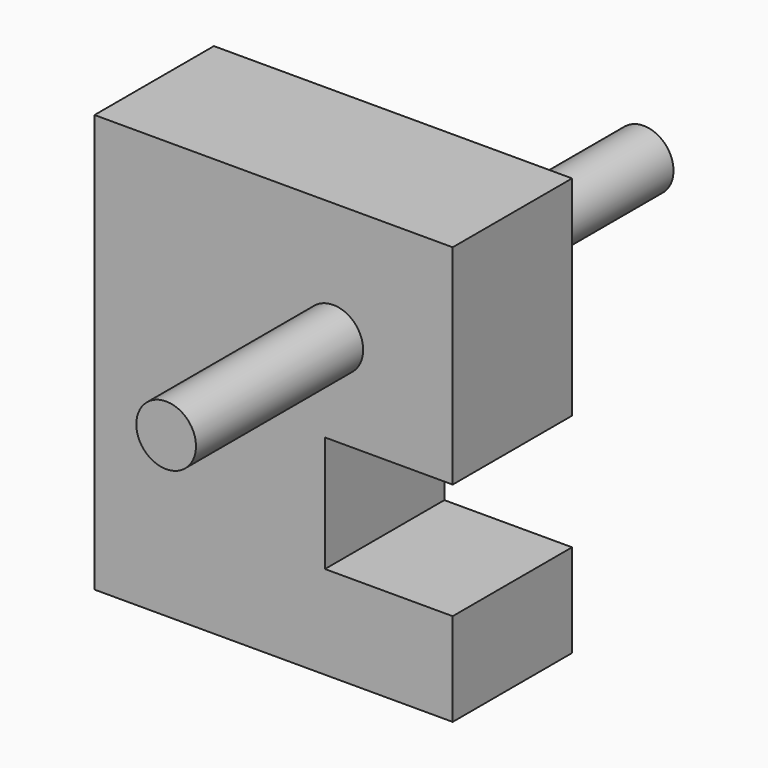
from build123d import *

# Parameters (mm, degrees)
F1_DEPTH      = 25
F2_R          = 5
F3_DEPTH      = 60
F3_DEPTH_BACK = 40


with BuildPart() as f1:
    # F0 (on Front) → F1 (new body)
    with BuildSketch(Plane.XZ):
        Polygon((0, 83.9650441706), (-60, 83.9650441706), (-60, 13.9650441706), (0, 13.9650441706), (0, 29.5586726815), (-21.3913675398, 29.5586726815), (-21.3913675398, 48.9650441706), (0, 48.9650441706), align=None)
    extrude(amount=F1_DEPTH)

    # F2 (on face) → F3 (join, two sides)
    with BuildSketch(Plane(origin=(0, 0, 0), x_dir=(-1, 0, 0), z_dir=(0, 1, 0))) as f3_sk:
        with Locations((20, 63.9650441706)):
            Circle(F2_R)
    extrude(amount=-F3_DEPTH)
    extrude(f3_sk.sketch, amount=F3_DEPTH_BACK)


solid = f1.part
